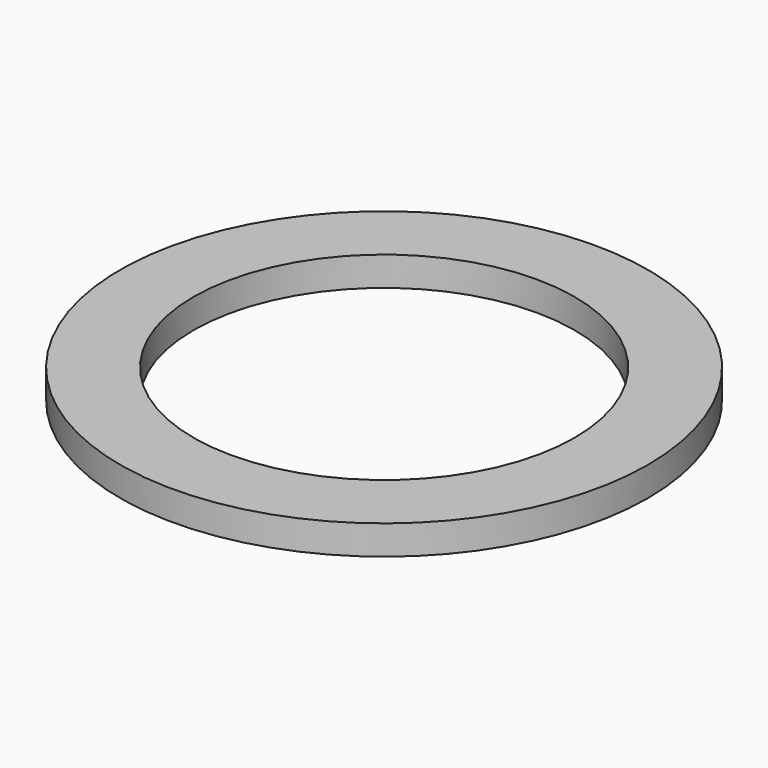
from build123d import *

# Parameters (mm, degrees)
SKETCH008_R   = 45
SKETCH008_R_2 = 32.5
PAD007_DEPTH  = 5


with BuildPart() as part:
    # Sketch008 → Pad007 (new body)
    with BuildSketch(Plane.XY):
        Circle(SKETCH008_R)
        Circle(SKETCH008_R_2, mode=Mode.SUBTRACT)
    extrude(amount=PAD007_DEPTH)


solid = part.part
